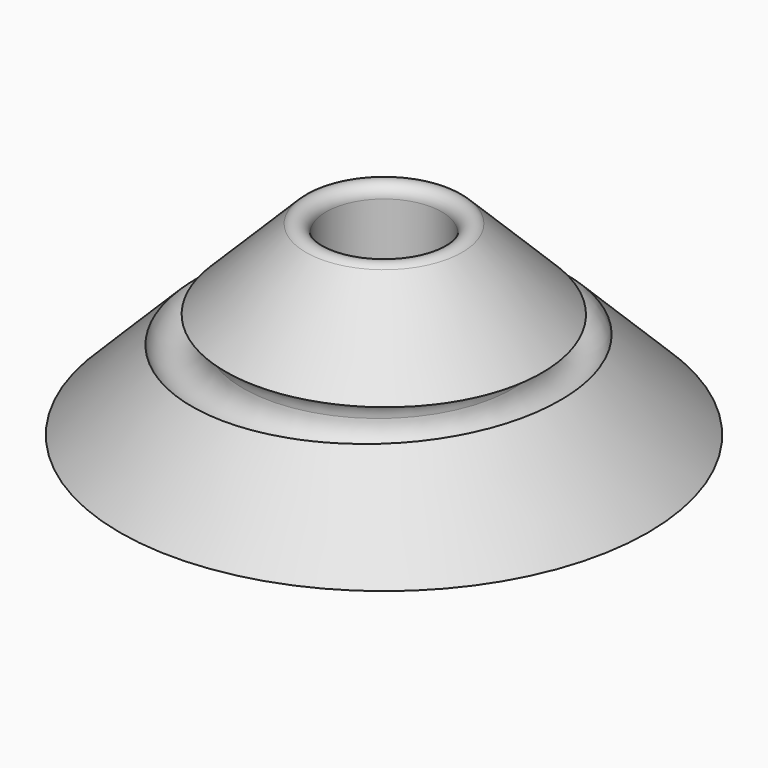
from build123d import *

# Parameters (mm, degrees)
F2_R = 10


with BuildPart() as f1:
    # F0 (on Front) → F1 (revolve)
    with BuildSketch(Plane.XZ):
        with BuildLine():
            Line((-8.535534, 78.535534), (-87.071068, 0))
            Line((-87.071068, 0), (0, 0))
            Line((0, 0), (0, 75))
            ThreePointArc((0, 75), (-3.086583, 79.619398), (-8.535534, 78.535534))
        make_face()
    revolve(axis=Axis((24.405399, 0, 40.663438), (0, 0, 1)))

    # F2 (on Front) → F3 (revolve, cut)
    with BuildSketch(Plane.XZ):
        with Locations((-45, 35)):
            Circle(F2_R)
    revolve(axis=Axis((22.005977, 0, 52.660808), (0, 0, 1)), mode=Mode.SUBTRACT)


solid = f1.part
